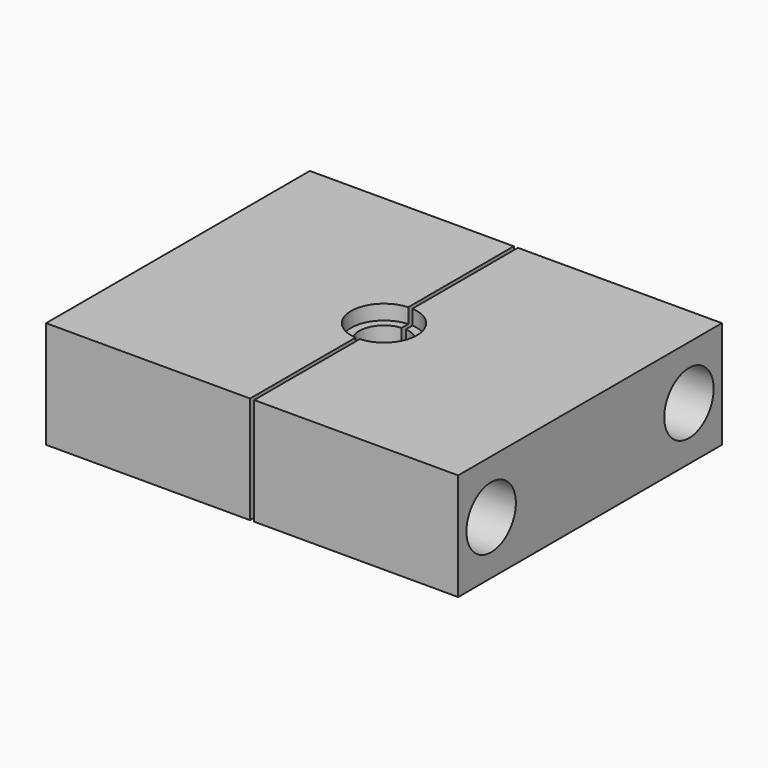
from build123d import *

# Parameters (mm, degrees)
F0_W      = 80
F0_H      = 26
F0_R      = 7.5
F1_DEPTH  = 50
F2_R      = 8
F3_DEPTH  = 3.6
F4_R      = 6
F5_DEPTH  = 6
F6_R      = 8
F7_DEPTH  = 2.9
F8_W      = 60
F8_H      = 40
F9_DEPTH  = 13.5
F11_DEPTH = 26


with BuildPart() as f1:
    # F0 (on Right) → F1 (new body, symmetric)
    with BuildSketch(Plane.YZ):
        Rectangle(F0_W, F0_H)
        with Locations((-30, 0)):
            Circle(F0_R, mode=Mode.SUBTRACT)
        with Locations((30, 0)):
            Circle(F0_R, mode=Mode.SUBTRACT)
    extrude(amount=F1_DEPTH, both=True)

    # F2 (on face) → F3 (cut)
    with BuildSketch(Plane.XY.offset(13)):
        Circle(F2_R)
    extrude(amount=-F3_DEPTH, mode=Mode.SUBTRACT)

    # F4 (on face) → F5 (cut)
    with BuildSketch(Plane.XY.offset(9.4)):
        Circle(F4_R)
    extrude(amount=-F5_DEPTH, mode=Mode.SUBTRACT)

    # F6 (on face) → F7 (cut)
    with BuildSketch(Plane.XY.offset(3.4)):
        Circle(F6_R)
    extrude(amount=-F7_DEPTH, mode=Mode.SUBTRACT)

    # F8 (on face) → F9 (cut, through all)
    with BuildSketch(Plane(origin=(0, 0, -13), x_dir=(1, 0, 0), z_dir=(0, 0, -1))):
        Rectangle(F8_W, F8_H)
    extrude(amount=-F9_DEPTH, mode=Mode.SUBTRACT)

    # F10 (on face) → F11 (cut, through all)
    with BuildSketch(Plane.XY.offset(13)):
        with BuildLine():
            Line((-0.5, -40), (0.5, -40))
            Line((0.5, -40), (0.5, -7.9843597113))
            ThreePointArc((0.5, -7.9843597113), (0, -8), (-0.5, -7.9843597113))
            Line((-0.5, -7.9843597113), (-0.5, -40))
        make_face()
        with BuildLine():
            ThreePointArc((-0.5, -7.9843597113), (0, -8), (0.5, -7.9843597113))
            Line((0.5, -7.9843597113), (0.5, 7.9843597113))
            ThreePointArc((0.5, 7.9843597113), (0, 8), (-0.5, 7.9843597113))
            Line((-0.5, 7.9843597113), (-0.5, -7.9843597113))
        make_face()
        with BuildLine():
            ThreePointArc((-0.5, 7.9843597113), (0, 8), (0.5, 7.9843597113))
            Line((0.5, 7.9843597113), (0.5, 40))
            Line((0.5, 40), (-0.5, 40))
            Line((-0.5, 40), (-0.5, 7.9843597113))
        make_face()
    extrude(amount=-F11_DEPTH, mode=Mode.SUBTRACT)


solid = f1.part
